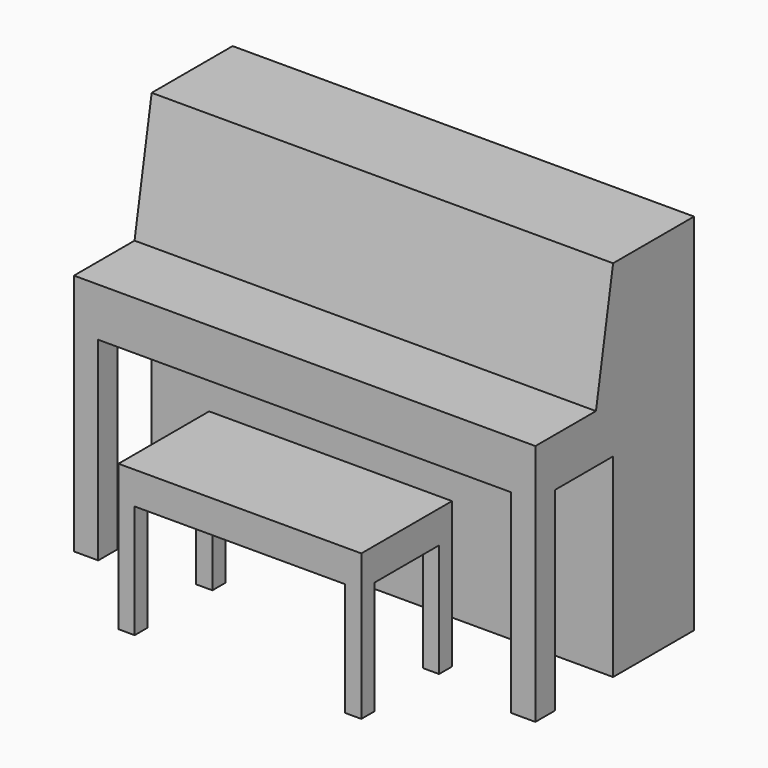
from build123d import *

# Parameters (mm, degrees)
F0_W      = 1447.8
F0_H      = 622.3
F1_DEPTH  = 1143
F3_DEPTH  = 1447.801
F4_W      = 1295.4
F4_H      = 609.6
F5_DEPTH  = 304.8
F6_W      = 228.6
F6_H      = 609.6
F7_DEPTH  = 1447.801
F8_W      = 762
F8_H      = 355.6
F10_DEPTH = 457.2
F11_DEPTH = 355.6


with BuildPart() as f1:
    # F0 (on Top) → F1 (new body)
    with BuildSketch(Plane.XY):
        with Locations((723.9, -311.15)):
            Rectangle(F0_W, F0_H)
    extrude(amount=F1_DEPTH)

    # F2 (on face) → F3 (cut, through all)
    with BuildSketch(Plane.YZ.offset(1447.8)):
        Polygon((-317.5, 1143), (-622.3, 1143), (-622.3, 762), (-384.68058, 762), align=None)
    extrude(amount=-F3_DEPTH, mode=Mode.SUBTRACT)

    # F4 (on face) → F5 (cut)
    with BuildSketch(Plane.XZ.offset(622.3)):
        with Locations((723.9, 304.8)):
            Rectangle(F4_W, F4_H)
    extrude(amount=-F5_DEPTH, mode=Mode.SUBTRACT)

    # F6 (on face) → F7 (cut, through all)
    with BuildSketch(Plane.YZ.offset(1447.8)):
        with Locations((-431.8, 304.8)):
            Rectangle(F6_W, F6_H)
    extrude(amount=-F7_DEPTH, mode=Mode.SUBTRACT)


with BuildPart() as f10:
    # F8 (on Top) → F10 (new body)
    with BuildSketch(Plane.XY):
        with Locations((723.9, -698.5)):
            Rectangle(F8_W, F8_H)
    extrude(amount=F10_DEPTH)

    # F9 (on Top) → F11 (cut)
    with BuildSketch(Plane.XY):
        Polygon((342.9, -571.5), (342.9, -825.5), (393.7, -825.5), (393.7, -876.3), (1054.1, -876.3), (1054.1, -825.5), (1104.9, -825.5), (1104.9, -571.5), (1054.1, -571.5), (1054.1, -520.7), (393.7, -520.7), (393.7, -571.5), align=None)
    extrude(amount=F11_DEPTH, mode=Mode.SUBTRACT)


solid = Compound([f1.part, f10.part])
